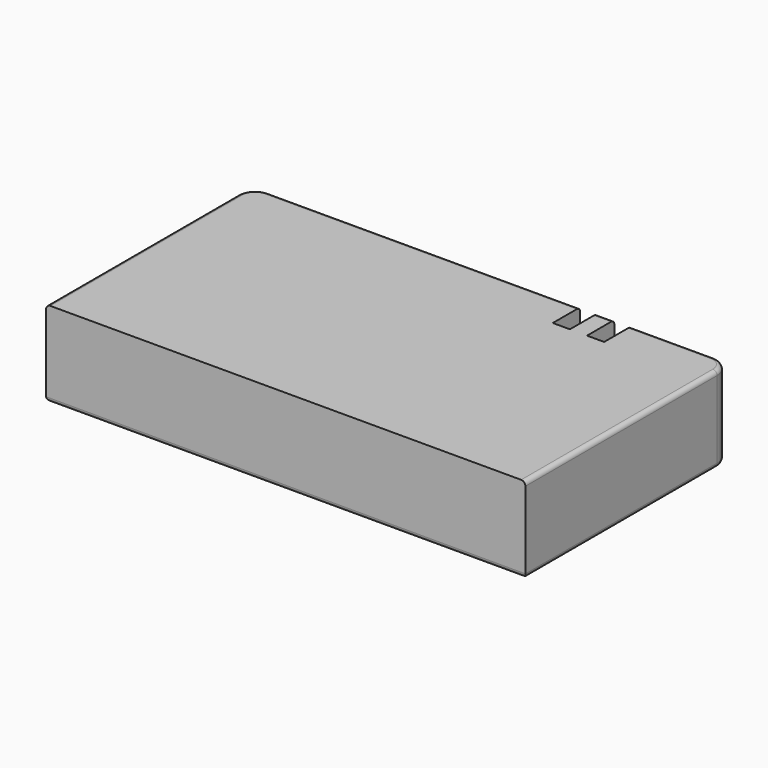
from build123d import *

# Parameters (mm, degrees)
SKETCH001_W  = 28
SKETCH001_H  = 5
PAD001_DEPTH = 15
SKETCH002_W  = 1
SKETCH002_H  = 2
POCKET_DEPTH = 2
CHAMFER_SIZE = 1.99
FILLET_R     = 1
FILLET001_R  = 0.25
FILLET002_R  = 0.25


with BuildPart() as part:
    # Sketch001 → Pad001 (new body)
    with BuildSketch(Plane(origin=(-3.75, 0.6, 1.3), x_dir=(1, 0, 0), z_dir=(0, 1, 0))):
        with Locations((12.9, -1.2)):
            Rectangle(SKETCH001_W, SKETCH001_H)
    extrude(amount=PAD001_DEPTH)

    # Sketch002 → Pocket (cut)
    with BuildSketch(Plane(origin=(-3.75, 15.6, 1.3), x_dir=(1, 0, 0), z_dir=(0, 1, 0))):
        with Locations((18.6, -2.7)):
            Rectangle(SKETCH002_W, SKETCH002_H)
        with Locations((20.6, -2.7)):
            Rectangle(SKETCH002_W, SKETCH002_H)
    extrude(amount=-POCKET_DEPTH, mode=Mode.SUBTRACT)

    # Chamfer
    chamfer_edges = [part.edges().sort_by_distance(p)[0] for p in [
        (16.85, 13.6, 3),
        (14.85, 13.6, 3),
    ]]
    chamfer(chamfer_edges, length=CHAMFER_SIZE)

    # Fillet
    fillet_edges = [part.edges().sort_by_distance(p)[0] for p in [
        (-4.85, 15.6, 2.5),
        (23.15, 15.6, 2.5),
    ]]
    fillet(fillet_edges, radius=FILLET_R)

    # Fillet001
    fillet001_edges = [part.edges().sort_by_distance(p)[0] for p in [
        (-4.85, 7.6, 0),
        (-4.557107, 15.307107, 0),
        (9.15, 0.6, 0),
        (9.15, 15.6, 0),
        (23.15, 7.6, 0),
        (22.857107, 15.307107, 0),
    ]]
    fillet(fillet001_edges, radius=FILLET001_R)

    # Fillet002
    fillet002_edges = [part.edges().sort_by_distance(p)[0] for p in [
        (22.857107, 15.307107, 5),
        (23.15, 7.6, 5),
        (19.75, 15.6, 5),
        (15.85, 15.6, 5),
        (5.25, 15.6, 5),
        (-4.557107, 15.307107, 5),
        (-4.85, 7.6, 5),
    ]]
    fillet(fillet002_edges, radius=FILLET002_R)


solid = part.part
